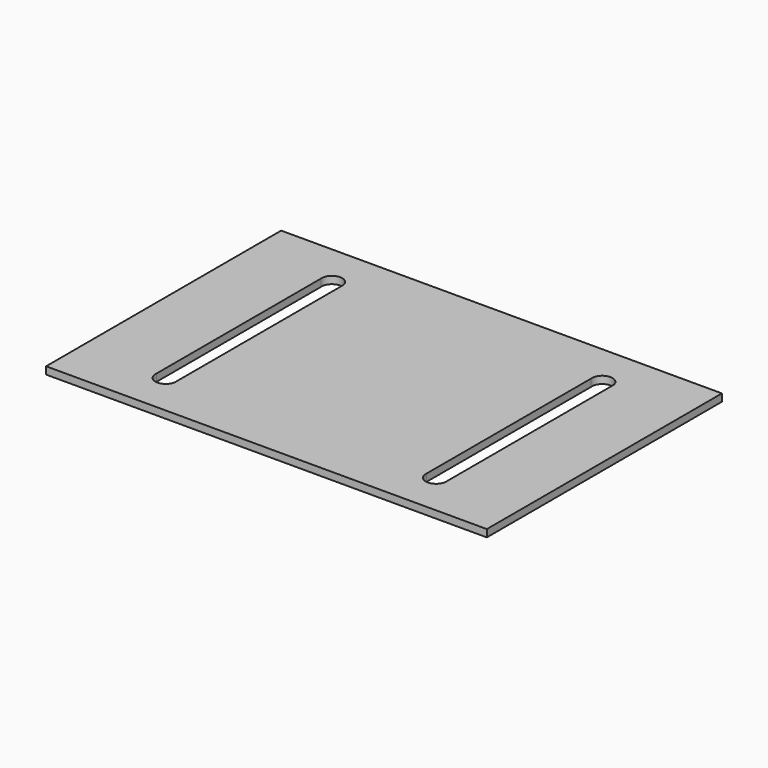
from build123d import *

# Parameters (mm, degrees)
F0_W     = 300
F0_H     = 200
F1_DEPTH = 5


with BuildPart() as f1:
    # F0 (on Top) → F1 (new body)
    with BuildSketch(Plane.XY):
        Rectangle(F0_W, F0_H)
        with BuildLine():
            ThreePointArc((98.964391, -70), (92, -77.705161), (85.035609, -70))
            Line((85.035609, -70), (85.035609, 70))
            ThreePointArc((85.035609, 70), (92, 77.705161), (98.964391, 70))
            Line((98.964391, 70), (98.964391, -70))
        make_face(mode=Mode.SUBTRACT)
        with BuildLine():
            Line((-85.035609, 70), (-85.035609, -70))
            ThreePointArc((-85.035609, -70), (-92, -77.705161), (-98.964391, -70))
            Line((-98.964391, -70), (-98.964391, 70))
            ThreePointArc((-98.964391, 70), (-92, 77.705161), (-85.035609, 70))
        make_face(mode=Mode.SUBTRACT)
    extrude(amount=F1_DEPTH)


solid = f1.part
